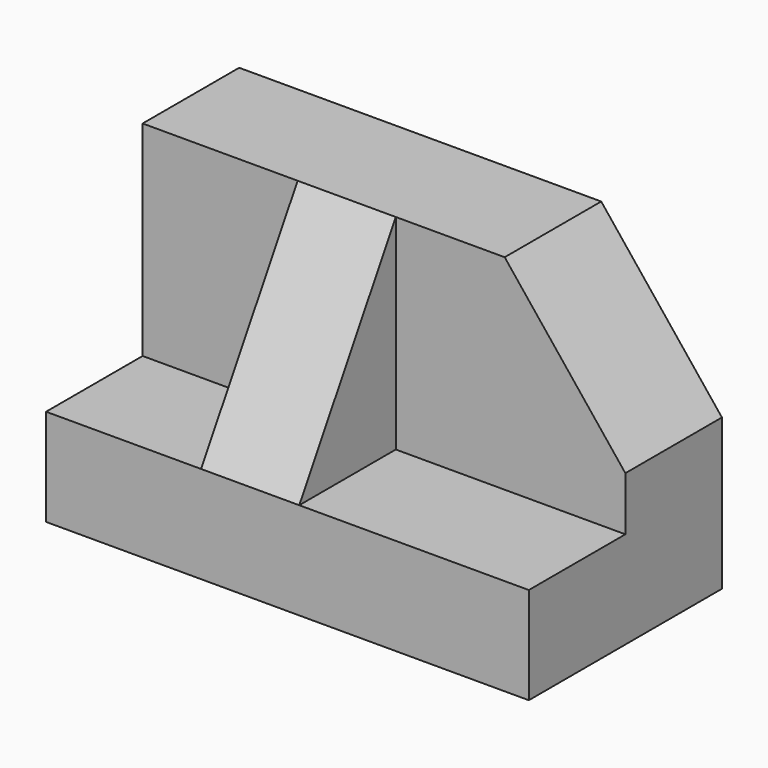
from build123d import *

# Parameters (mm, degrees)
F0_W     = 50.8
F0_H     = 31.75
F1_DEPTH = 25.4
F3_DEPTH = 12.7
F4_W     = 50.8
F4_H     = 21.5396340117
F5_DEPTH = 12.7
F6_W     = 10.3306490928
F6_H     = 21.5396340117
F7_DEPTH = 25.4
F9_DEPTH = 25.4


with BuildPart() as f1:
    # F0 (on Front) → F1 (new body)
    with BuildSketch(Plane.XZ):
        with Locations((25.4, 15.875)):
            Rectangle(F0_W, F0_H)
    extrude(amount=F1_DEPTH)

    # F2 (on face) → F3 (cut)
    with BuildSketch(Plane(origin=(0, 0, 0), x_dir=(-1, 0, 0), z_dir=(0, 1, 0))):
        Polygon((-50.8, 31.75), (-50.8, 15.875), (-38.1, 31.75), align=None)
    extrude(amount=-F3_DEPTH, mode=Mode.SUBTRACT)

    # F4 (on face) → F5 (cut)
    with BuildSketch(Plane.XZ.offset(25.4)):
        with Locations((25.4, 20.9801829942)):
            Rectangle(F4_W, F4_H)
    extrude(amount=-F5_DEPTH, mode=Mode.SUBTRACT)

    # F6 (on face) → F7 (join)
    with BuildSketch(Plane.XZ.offset(12.7)):
        with Locations((21.4760145172, 20.9801829942)):
            Rectangle(F6_W, F6_H)
    extrude(amount=F7_DEPTH)

    # F8 (on face) → F9 (cut)
    with BuildSketch(Plane(origin=(16.3106899709, 0, 0), x_dir=(0, -1, 0), z_dir=(-1, 0, 0))):
        Polygon((38.1, 31.75), (12.7, 31.75), (25.4, 10.2103659883), (38.1, 10.2103659883), align=None)
    extrude(amount=-F9_DEPTH, mode=Mode.SUBTRACT)


solid = f1.part
